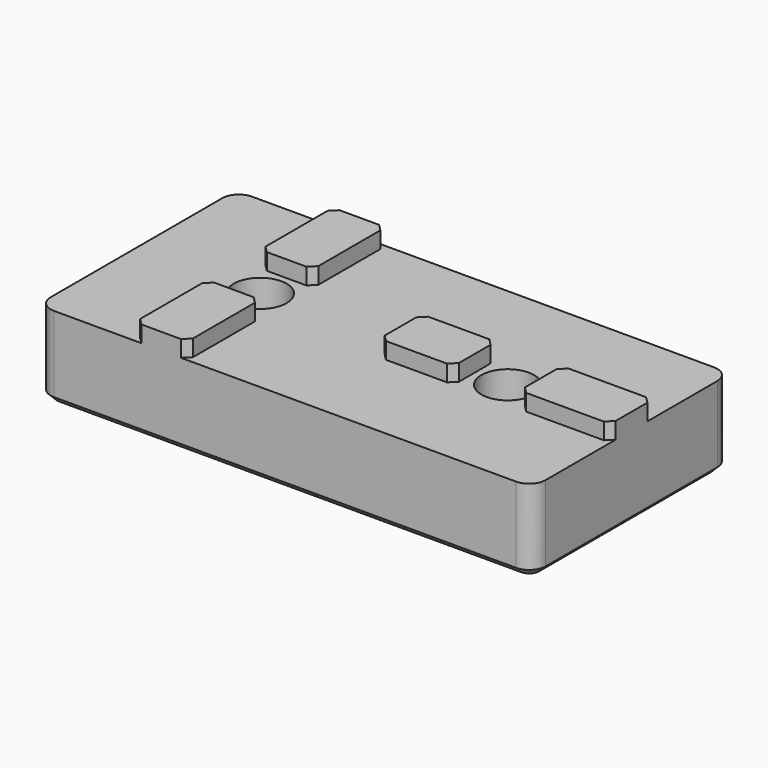
from build123d import *

# Parameters (mm, degrees)
SKETCH039_W                                      = 30
SKETCH039_H                                      = 15
SKETCH039_R                                      = 1.6
PAD008_DEPTH                                     = 5
SKETCH040_W                                      = 4.5
SKETCH040_H                                      = 3.2
SKETCH040_W_2                                    = 5.5
SKETCH040_W_3                                    = 3.2
SKETCH040_H_2                                    = 5.5
PAD009_DEPTH                                     = 1
PAD010_DEPTH                                     = 1
FILLET002_R                                      = 1
CHAMFER004013007011015006009007001005003045_SIZE = 0.4
CHAMFER004013007011015006009007001005003046_SIZE = 0.4


with BuildPart() as part:
    # Sketch039 → Pad008 (new body)
    with BuildSketch(Plane.XY):
        with Locations((15, 7.5)):
            Rectangle(SKETCH039_W, SKETCH039_H)
        with Locations((7.5, 7.5)):
            Circle(SKETCH039_R, mode=Mode.SUBTRACT)
        with Locations((22.5, 7.5)):
            Circle(SKETCH039_R, mode=Mode.SUBTRACT)
    extrude(amount=PAD008_DEPTH)

    # Sketch040 (on Face8 of Pad008) → Pad009 (join)
    with BuildSketch(Plane.XY.offset(5)):
        with Locations((18.25, 7.5)):
            Rectangle(SKETCH040_W, SKETCH040_H)
        with Locations((27.25, 7.5)):
            Rectangle(SKETCH040_W_2, SKETCH040_H)
        with Locations((7.5, 12.25)):
            Rectangle(SKETCH040_W_3, SKETCH040_H_2)
        with Locations((7.5, 2.75)):
            Rectangle(SKETCH040_W_3, SKETCH040_H_2)
    extrude(amount=PAD009_DEPTH)

    # Sketch040 (on Face8 of Pad008) → Pad010 (join)
    with BuildSketch(Plane.XY.offset(5)):
        with Locations((18.25, 7.5)):
            Rectangle(SKETCH040_W, SKETCH040_H)
        with Locations((27.25, 7.5)):
            Rectangle(SKETCH040_W_2, SKETCH040_H)
        with Locations((7.5, 12.25)):
            Rectangle(SKETCH040_W_3, SKETCH040_H_2)
        with Locations((7.5, 2.75)):
            Rectangle(SKETCH040_W_3, SKETCH040_H_2)
    extrude(amount=PAD010_DEPTH)

    # Fillet002
    fillet002_edges = [part.edges().sort_by_distance(p)[0] for p in [
        (30, 0, 2.5),
        (30, 15, 2.5),
        (0, 15, 2.5),
        (0, 0, 2.5),
    ]]
    fillet(fillet002_edges, radius=FILLET002_R)

    # Chamfer004013007011015006009007001005003045
    chamfer004013007011015006009007001005003045_edges = [part.edges().sort_by_distance(p)[0] for p in [
        (30, 9.1, 5.5),
        (24.5, 9.1, 5.5),
        (20.5, 9.1, 5.5),
        (16, 9.1, 5.5),
        (16, 5.9, 5.5),
        (9.1, 15, 5.5),
        (5.9, 15, 5.5),
        (9.1, 5.5, 5.5),
        (5.9, 5.5, 5.5),
        (5.9, 9.5, 5.5),
        (5.9, 0, 5.5),
        (9.1, 9.5, 5.5),
        (9.1, 0, 5.5),
        (20.5, 5.9, 5.5),
        (24.5, 5.9, 5.5),
        (30, 5.9, 5.5),
    ]]
    chamfer(chamfer004013007011015006009007001005003045_edges, length=CHAMFER004013007011015006009007001005003045_SIZE)

    # Chamfer004013007011015006009007001005003046
    chamfer004013007011015006009007001005003046_edges = [part.edges().sort_by_distance(p)[0] for p in [
        (15, 0, 0),
        (29.707107, 0.292893, 0),
        (30, 7.5, 0),
        (29.707107, 14.707107, 0),
        (15, 15, 0),
        (0.292893, 14.707107, 0),
        (0, 7.5, 0),
        (0.292893, 0.292893, 0),
        (20.9, 7.5, 0),
        (5.9, 7.5, 0),
    ]]
    chamfer(chamfer004013007011015006009007001005003046_edges, length=CHAMFER004013007011015006009007001005003046_SIZE)


solid = part.part
